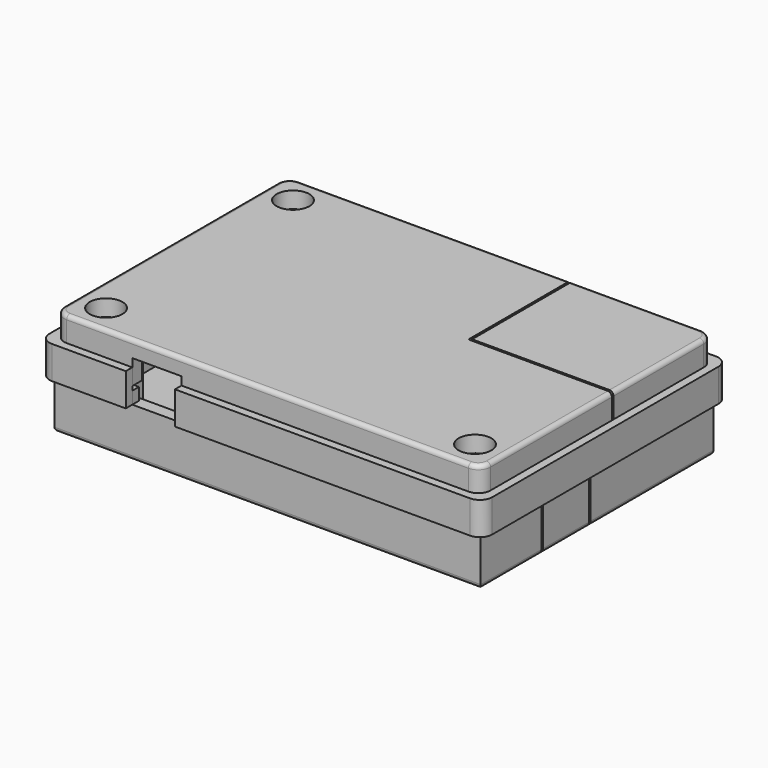
from build123d import *

# Parameters (mm, degrees)
CYLINDER024_R          = 3
CYLINDER024_DEPTH      = 12
CYLINDER025_R          = 3
CYLINDER025_DEPTH      = 12
CYLINDER026_R          = 3
CYLINDER026_DEPTH      = 12
CYLINDER027_R          = 3
CYLINDER027_DEPTH      = 12
BOX082_W               = 5
BOX082_H               = 5
BOX082_DEPTH           = 8
BOX083_W               = 5
BOX083_H               = 5
BOX083_DEPTH           = 8
BOX084_W               = 70
BOX084_H               = 2
BOX084_DEPTH           = 8
BOX085_W               = 5
BOX085_H               = 5
BOX085_DEPTH           = 8
BOX086_W               = 5
BOX086_H               = 5
BOX086_DEPTH           = 8
BOX087_W               = 2
BOX087_H               = 65
BOX087_DEPTH           = 8
BOX089_W               = 16
BOX089_H               = 2
BOX089_DEPTH           = 8
BOX088_W               = 2
BOX088_H               = 65
BOX088_DEPTH           = 8
BOX081_W               = 98
BOX081_H               = 2
BOX081_DEPTH           = 8
FILLET018_R            = 3
BOX078_W               = 17
BOX078_H               = 8
BOX078_DEPTH           = 1.5
BOX080_W               = 9
BOX080_H               = 2
BOX080_DEPTH           = 8
BOX079_W               = 2
BOX079_H               = 11
BOX079_DEPTH           = 8
BOX077_W               = 31.5
BOX077_H               = 27.5
BOX077_DEPTH           = 6
BOX076_W               = 34.5
BOX076_H               = 30.5
BOX076_DEPTH           = 8
FILLET016_R            = 3
FILLET017_R            = 1
BOX074_W               = 2
BOX074_H               = 5
BOX074_DEPTH           = 2
BOX073_W               = 22
BOX073_H               = 5
BOX073_DEPTH           = 2
BOX075_W               = 2
BOX075_H               = 5
BOX075_DEPTH           = 2
CYLINDER018_R          = 2
CYLINDER018_DEPTH      = 10
CYLINDER017_R          = 2
CYLINDER017_DEPTH      = 10
CYLINDER019_R          = 2
CYLINDER019_DEPTH      = 10
CYLINDER020_R          = 4
CYLINDER020_DEPTH      = 4
CYLINDER021_R          = 4
CYLINDER021_DEPTH      = 4
CYLINDER023_R          = 4
CYLINDER023_DEPTH      = 4
CYLINDER016_R          = 2
CYLINDER016_DEPTH      = 2
BOX036_W               = 12
BOX036_H               = 3
BOX036_DEPTH           = 6
BOX042_W               = 35
BOX042_H               = 31
BOX042_DEPTH           = 8
BOX037_W               = 80
BOX037_H               = 1
BOX037_DEPTH           = 8
BOX039_W               = 1
BOX039_H               = 47
BOX039_DEPTH           = 8
BOX032_W               = 10
BOX032_H               = 10
BOX032_DEPTH           = 8
BOX035_W               = 10
BOX035_H               = 10
BOX035_DEPTH           = 8
BOX034_W               = 10
BOX034_H               = 10
BOX034_DEPTH           = 8
BOX033_W               = 10
BOX033_H               = 10
BOX033_DEPTH           = 8
BOX040_W               = 1
BOX040_H               = 47
BOX040_DEPTH           = 8
BOX038_W               = 80
BOX038_H               = 1
BOX038_DEPTH           = 8
BOX031_W               = 100
BOX031_H               = 67
BOX031_DEPTH           = 8
BOX029_W               = 104
BOX029_H               = 71
BOX029_DEPTH           = 10
FILLET019_R            = 3
FILLET020_R            = 1
BOX012_W               = 8
BOX012_H               = 10
BOX012_DEPTH           = 8
BOX099_W               = 22
BOX099_H               = 8
BOX099_DEPTH           = 15
BOX100_W               = 22
BOX100_H               = 8
BOX100_DEPTH           = 15
BOX090_W               = 10
BOX090_H               = 15
BOX090_DEPTH           = 2
BOX092_W               = 51
BOX092_H               = 65
BOX092_DEPTH           = 2
CYLINDER005_R          = 4
CYLINDER005_DEPTH      = 8
CYLINDER004_R          = 4
CYLINDER004_DEPTH      = 8
CYLINDER_R             = 2
CYLINDER_DEPTH         = 15
CYLINDER007_R          = 4
CYLINDER007_DEPTH      = 8
CYLINDER006_R          = 4
CYLINDER006_DEPTH      = 8
CYLINDER003_R          = 2
CYLINDER003_DEPTH      = 15
CYLINDER002_R          = 2
CYLINDER002_DEPTH      = 15
CYLINDER001_R          = 2
CYLINDER001_DEPTH      = 15
BOX091_W               = 61
BOX091_H               = 71
BOX091_DEPTH           = 2
BOX003_W               = 10
BOX003_H               = 10
BOX003_DEPTH           = 13
BOX004_W               = 10
BOX004_H               = 10
BOX004_DEPTH           = 13
BOX005_W               = 10
BOX005_H               = 10
BOX005_DEPTH           = 13
BOX002_W               = 10
BOX002_H               = 10
BOX002_DEPTH           = 13
BOX009_W               = 80
BOX009_H               = 1
BOX009_DEPTH           = 10
BOX010_W               = 1
BOX010_H               = 19
BOX010_DEPTH           = 10
BOX011_W               = 1
BOX011_H               = 47
BOX011_DEPTH           = 10
BOX006_W               = 12
BOX006_H               = 2
BOX006_DEPTH           = 3
BOX007_W               = 24
BOX007_H               = 15
BOX007_DEPTH           = 15
BOX001_W               = 100
BOX001_H               = 67
BOX001_DEPTH           = 13
BOX_W                  = 104
BOX_H                  = 71
BOX_DEPTH              = 15
BOX008_W               = 80
BOX008_H               = 1
BOX008_DEPTH           = 10
BOX025_W               = 2
BOX025_H               = 2
BOX025_DEPTH           = 2
BOX027_W               = 2
BOX027_H               = 2
BOX027_DEPTH           = 2
BOX023_W               = 4
BOX023_H               = 4
BOX023_DEPTH           = 2
BOX018_W               = 3
BOX018_H               = 63
BOX018_DEPTH           = 2
BOX017_W               = 57
BOX017_H               = 3
BOX017_DEPTH           = 2
BOX016_W               = 57
BOX016_H               = 3
BOX016_DEPTH           = 2
BOX022_W               = 4
BOX022_H               = 4
BOX022_DEPTH           = 2
BOX093_W               = 9
BOX093_H               = 47
BOX093_DEPTH           = 2
FILLET_R               = 1
CYLINDER031_R          = 2
CYLINDER031_DEPTH      = 15
CYLINDER030_R          = 2
CYLINDER030_DEPTH      = 15
CYLINDER032_R          = 2
CYLINDER032_DEPTH      = 15
CYLINDER029_R          = 2
CYLINDER029_DEPTH      = 15
CYLINDER033_R          = 1.5
CYLINDER033_DEPTH      = 3
BOX094_W               = 22
BOX094_H               = 6.5
BOX094_DEPTH           = 8
BOX095_W               = 22
BOX095_H               = 6.5
BOX095_DEPTH           = 8
BOX098_W               = 7
BOX098_H               = 15
BOX098_DEPTH           = 1
BOX112_W               = 4
BOX112_H               = 3
BOX112_DEPTH           = 5
BOX110_W               = 4
BOX110_H               = 3
BOX110_DEPTH           = 5
CYLINDER046_R          = 3
CYLINDER046_DEPTH      = 15
CYLINDER045_R          = 3
CYLINDER045_DEPTH      = 15
CYLINDER040_R          = 2
CYLINDER040_DEPTH      = 15
CYLINDER038_R          = 2
CYLINDER038_DEPTH      = 15
CYLINDER043_R          = 2.5
CYLINDER043_DEPTH      = 30
CYLINDER043_ROLL_ANGLE = 90
BOX104_W               = 5
BOX104_H               = 8
BOX104_DEPTH           = 2.5
BOX102_W               = 22
BOX102_H               = 6.5
BOX102_DEPTH           = 7
BOX111_W               = 4
BOX111_H               = 3
BOX111_DEPTH           = 5
BOX109_W               = 4
BOX109_H               = 3
BOX109_DEPTH           = 5
CYLINDER044_R          = 2.5
CYLINDER044_DEPTH      = 30
CYLINDER044_ROLL_ANGLE = 90
CYLINDER041_R          = 3
CYLINDER041_DEPTH      = 15
CYLINDER047_R          = 3
CYLINDER047_DEPTH      = 15
CYLINDER034_R          = 2
CYLINDER034_DEPTH      = 15
CYLINDER039_R          = 2
CYLINDER039_DEPTH      = 15
CYLINDER037_R          = 2.5
CYLINDER037_DEPTH      = 28
CYLINDER037_ROLL_ANGLE = 90
BOX103_W               = 5
BOX103_H               = 8
BOX103_DEPTH           = 2.5
BOX101_W               = 22
BOX101_H               = 6.5
BOX101_DEPTH           = 7
BOX116_W               = 15.5
BOX116_H               = 1.5
BOX116_DEPTH           = 1
BOX117_W               = 15.5
BOX117_H               = 1.5
BOX117_DEPTH           = 1
BOX118_W               = 3
BOX118_H               = 14
BOX118_DEPTH           = 1
BOX115_W               = 3
BOX115_H               = 11
BOX115_DEPTH           = 1
BOX119_W               = 8
BOX119_H               = 9
BOX119_DEPTH           = 4
BOX113_W               = 5
BOX113_H               = 4
BOX113_DEPTH           = 2
BOX114_W               = 5
BOX114_H               = 4
BOX114_DEPTH           = 2
BOX106_W               = 5
BOX106_H               = 14
BOX106_DEPTH           = 9
BOX105_W               = 23
BOX105_H               = 14
BOX105_DEPTH           = 11
BOX107_W               = 10
BOX107_H               = 14
BOX107_DEPTH           = 4
CYLINDER042_R          = 2
CYLINDER042_DEPTH      = 28
CYLINDER042_ROLL_ANGLE = 90
FILLET021_R            = 1


with BuildPart() as cylinder024:
    # Cylinder024 → Cylinder024 (new body)
    with BuildSketch(Plane(origin=(2, 2, 11), x_dir=(1, 0, 0), z_dir=(0, 0, 1))):
        Circle(CYLINDER024_R)
    extrude(amount=CYLINDER024_DEPTH)


with BuildPart() as cylinder025:
    # Cylinder025 → Cylinder025 (new body)
    with BuildSketch(Plane(origin=(100, 2, 11), x_dir=(1, 0, 0), z_dir=(0, 0, 1))):
        Circle(CYLINDER025_R)
    extrude(amount=CYLINDER025_DEPTH)


with BuildPart() as cylinder026:
    # Cylinder026 → Cylinder026 (new body)
    with BuildSketch(Plane(origin=(2, 67, 11), x_dir=(1, 0, 0), z_dir=(0, 0, 1))):
        Circle(CYLINDER026_R)
    extrude(amount=CYLINDER026_DEPTH)


with BuildPart() as cylinder027:
    # Cylinder027 → Cylinder027 (new body)
    with BuildSketch(Plane(origin=(100, 67, 11), x_dir=(1, 0, 0), z_dir=(0, 0, 1))):
        Circle(CYLINDER027_R)
    extrude(amount=CYLINDER027_DEPTH)


with BuildPart() as cube082:
    # Box082 → Box082 (new body)
    with BuildSketch(Plane(origin=(100, 67, 12), x_dir=(1, 0, 0), z_dir=(0, 0, 1))):
        with Locations((2.5, 2.5)):
            Rectangle(BOX082_W, BOX082_H)
    extrude(amount=BOX082_DEPTH)


with BuildPart() as cube083:
    # Box083 → Box083 (new body)
    with BuildSketch(Plane(origin=(100, -3, 12), x_dir=(1, 0, 0), z_dir=(0, 0, 1))):
        with Locations((2.5, 2.5)):
            Rectangle(BOX083_W, BOX083_H)
    extrude(amount=BOX083_DEPTH)


with BuildPart() as cube084:
    # Box084 → Box084 (new body)
    with BuildSketch(Plane(origin=(30, -3, 12), x_dir=(1, 0, 0), z_dir=(0, 0, 1))):
        with Locations((35, 1)):
            Rectangle(BOX084_W, BOX084_H)
    extrude(amount=BOX084_DEPTH)


with BuildPart() as cube085:
    # Box085 → Box085 (new body)
    with BuildSketch(Plane(origin=(-3, -3, 12), x_dir=(1, 0, 0), z_dir=(0, 0, 1))):
        with Locations((2.5, 2.5)):
            Rectangle(BOX085_W, BOX085_H)
    extrude(amount=BOX085_DEPTH)


with BuildPart() as cube086:
    # Box086 → Box086 (new body)
    with BuildSketch(Plane(origin=(-3, 67, 12), x_dir=(1, 0, 0), z_dir=(0, 0, 1))):
        with Locations((2.5, 2.5)):
            Rectangle(BOX086_W, BOX086_H)
    extrude(amount=BOX086_DEPTH)


with BuildPart() as cube087:
    # Box087 → Box087 (new body)
    with BuildSketch(Plane(origin=(103, 2, 12), x_dir=(1, 0, 0), z_dir=(0, 0, 1))):
        with Locations((1, 32.5)):
            Rectangle(BOX087_W, BOX087_H)
    extrude(amount=BOX087_DEPTH)


with BuildPart() as cube089:
    # Box089 → Box089 (new body)
    with BuildSketch(Plane(origin=(2, -3, 12), x_dir=(1, 0, 0), z_dir=(0, 0, 1))):
        with Locations((8, 1)):
            Rectangle(BOX089_W, BOX089_H)
    extrude(amount=BOX089_DEPTH)


with BuildPart() as cube088:
    # Box088 → Box088 (new body)
    with BuildSketch(Plane(origin=(-3, 2, 12), x_dir=(1, 0, 0), z_dir=(0, 0, 1))):
        with Locations((1, 32.5)):
            Rectangle(BOX088_W, BOX088_H)
    extrude(amount=BOX088_DEPTH)


with BuildPart() as fillet018:
    # Box081 → Box081 (new body)
    with BuildSketch(Plane(origin=(2, 70, 12), x_dir=(1, 0, 0), z_dir=(0, 0, 1))):
        with Locations((49, 1)):
            Rectangle(BOX081_W, BOX081_H)
    extrude(amount=BOX081_DEPTH)

    # Fusion018: union Cube082, Cube083, Cube084, Cube085, Cube086, Cube087, Cube089, Cube088
    add(cube082.part)
    add(cube083.part)
    add(cube084.part)
    add(cube085.part)
    add(cube086.part)
    add(cube087.part)
    add(cube089.part)
    add(cube088.part)

    # Cut058: cut Cylinder027
    add(cylinder027.part, mode=Mode.SUBTRACT)

    # Cut059: cut Cylinder026
    add(cylinder026.part, mode=Mode.SUBTRACT)

    # Cut060: cut Cylinder025
    add(cylinder025.part, mode=Mode.SUBTRACT)

    # Cut061: cut Cylinder024
    add(cylinder024.part, mode=Mode.SUBTRACT)

    # Fillet018
    fillet018_edges = [fillet018.edges().sort_by_distance(p)[0] for p in [
        (105, 72, 16),
        (-3, 72, 16),
        (105, -3, 16),
        (-3, -3, 16),
    ]]
    fillet(fillet018_edges, radius=FILLET018_R)


with BuildPart() as cube078:
    # Box078 → Box078 (new body)
    with BuildSketch(Plane(origin=(75.5, 36, 22.5), x_dir=(1, 0, 0), z_dir=(0, 0, 1))):
        with Locations((8.5, 4)):
            Rectangle(BOX078_W, BOX078_H)
    extrude(amount=BOX078_DEPTH)


with BuildPart() as cube080:
    # Box080 → Box080 (new body)
    with BuildSketch(Plane(origin=(91, 56, 16), x_dir=(1, 0, 0), z_dir=(0, 0, 1))):
        with Locations((4.5, 1)):
            Rectangle(BOX080_W, BOX080_H)
    extrude(amount=BOX080_DEPTH)


with BuildPart() as cube079:
    # Box079 → Box079 (new body)
    with BuildSketch(Plane(origin=(89, 56, 16), x_dir=(1, 0, 0), z_dir=(0, 0, 1))):
        with Locations((1, 5.5)):
            Rectangle(BOX079_W, BOX079_H)
    extrude(amount=BOX079_DEPTH)


with BuildPart() as cube077:
    # Box077 → Box077 (new body)
    with BuildSketch(Plane(origin=(68.5, 39.5, 18), x_dir=(1, 0, 0), z_dir=(0, 0, 1))):
        with Locations((15.75, 13.75)):
            Rectangle(BOX077_W, BOX077_H)
    extrude(amount=BOX077_DEPTH)


with BuildPart() as fillet017:
    # Box076 → Box076 (new body)
    with BuildSketch(Plane(origin=(68.5, 39.5, 18), x_dir=(1, 0, 0), z_dir=(0, 0, 1))):
        with Locations((17.25, 15.25)):
            Rectangle(BOX076_W, BOX076_H)
    extrude(amount=BOX076_DEPTH)

    # Cut057: cut Cube077
    add(cube077.part, mode=Mode.SUBTRACT)

    # Fusion017: union Cube078, Cube080, Cube079
    add(cube078.part)
    add(cube080.part)
    add(cube079.part)

    # Fillet016
    fillet016_edges = [fillet017.edges().sort_by_distance(p)[0] for p in [
        (103, 70, 22),
    ]]
    fillet(fillet016_edges, radius=FILLET016_R)

    # Fillet017
    fillet017_edges = [fillet017.edges().sort_by_distance(p)[0] for p in [
        (103, 53.25, 26),
        (84.25, 70, 26),
        (102.12132, 69.12132, 26),
    ]]
    fillet(fillet017_edges, radius=FILLET017_R)


with BuildPart() as cube074:
    # Box074 → Box074 (new body)
    with BuildSketch(Plane(origin=(73, 34, 22), x_dir=(1, 0, 0), z_dir=(0, 0, 1))):
        with Locations((1, 2.5)):
            Rectangle(BOX074_W, BOX074_H)
    extrude(amount=BOX074_DEPTH)


with BuildPart() as cube073:
    # Box073 → Box073 (new body)
    with BuildSketch(Plane(origin=(73, 34, 20), x_dir=(1, 0, 0), z_dir=(0, 0, 1))):
        with Locations((11, 2.5)):
            Rectangle(BOX073_W, BOX073_H)
    extrude(amount=BOX073_DEPTH)


with BuildPart() as fusion022:
    # Box075 → Box075 (new body)
    with BuildSketch(Plane(origin=(93, 34, 22), x_dir=(1, 0, 0), z_dir=(0, 0, 1))):
        with Locations((1, 2.5)):
            Rectangle(BOX075_W, BOX075_H)
    extrude(amount=BOX075_DEPTH)

    # Fusion022: union Cube074, Cube073
    add(cube074.part)
    add(cube073.part)


with BuildPart() as cylinder018:
    # Cylinder018 → Cylinder018 (new body)
    with BuildSketch(Plane(origin=(96, 6, 16), x_dir=(1, 0, 0), z_dir=(0, 0, 1))):
        Circle(CYLINDER018_R)
    extrude(amount=CYLINDER018_DEPTH)


with BuildPart() as cylinder017:
    # Cylinder017 → Cylinder017 (new body)
    with BuildSketch(Plane(origin=(6, 63, 16), x_dir=(1, 0, 0), z_dir=(0, 0, 1))):
        Circle(CYLINDER017_R)
    extrude(amount=CYLINDER017_DEPTH)


with BuildPart() as cylinder019:
    # Cylinder019 → Cylinder019 (new body)
    with BuildSketch(Plane(origin=(6, 6, 16), x_dir=(1, 0, 0), z_dir=(0, 0, 1))):
        Circle(CYLINDER019_R)
    extrude(amount=CYLINDER019_DEPTH)


with BuildPart() as cylinder020:
    # Cylinder020 → Cylinder020 (new body)
    with BuildSketch(Plane(origin=(6, 6, 22), x_dir=(1, 0, 0), z_dir=(0, 0, 1))):
        Circle(CYLINDER020_R)
    extrude(amount=CYLINDER020_DEPTH)


with BuildPart() as cylinder021:
    # Cylinder021 → Cylinder021 (new body)
    with BuildSketch(Plane(origin=(6, 63, 22), x_dir=(1, 0, 0), z_dir=(0, 0, 1))):
        Circle(CYLINDER021_R)
    extrude(amount=CYLINDER021_DEPTH)


with BuildPart() as cylinder023:
    # Cylinder023 → Cylinder023 (new body)
    with BuildSketch(Plane(origin=(96, 6, 22), x_dir=(1, 0, 0), z_dir=(0, 0, 1))):
        Circle(CYLINDER023_R)
    extrude(amount=CYLINDER023_DEPTH)


with BuildPart() as cylinder016:
    # Cylinder016 → Cylinder016 (new body)
    with BuildSketch(Plane(origin=(96, 63, 16), x_dir=(1, 0, 0), z_dir=(0, 0, 1))):
        Circle(CYLINDER016_R)
    extrude(amount=CYLINDER016_DEPTH)


with BuildPart() as cube036:
    # Box036 → Box036 (new body)
    with BuildSketch(Plane(origin=(18, -1, 16), x_dir=(1, 0, 0), z_dir=(0, 0, 1))):
        with Locations((6, 1.5)):
            Rectangle(BOX036_W, BOX036_H)
    extrude(amount=BOX036_DEPTH)


with BuildPart() as cube042:
    # Box042 → Box042 (new body)
    with BuildSketch(Plane(origin=(68, 39, 18), x_dir=(1, 0, 0), z_dir=(0, 0, 1))):
        with Locations((17.5, 15.5)):
            Rectangle(BOX042_W, BOX042_H)
    extrude(amount=BOX042_DEPTH)


with BuildPart() as cube037:
    # Box037 → Box037 (new body)
    with BuildSketch(Plane(origin=(11, 1, 16), x_dir=(1, 0, 0), z_dir=(0, 0, 1))):
        with Locations((40, 0.5)):
            Rectangle(BOX037_W, BOX037_H)
    extrude(amount=BOX037_DEPTH)


with BuildPart() as cube039:
    # Box039 → Box039 (new body)
    with BuildSketch(Plane(origin=(100, 11, 16), x_dir=(1, 0, 0), z_dir=(0, 0, 1))):
        with Locations((0.5, 23.5)):
            Rectangle(BOX039_W, BOX039_H)
    extrude(amount=BOX039_DEPTH)


with BuildPart() as cube032:
    # Box032 → Box032 (new body)
    with BuildSketch(Plane(origin=(1, 1, 16), x_dir=(1, 0, 0), z_dir=(0, 0, 1))):
        with Locations((5, 5)):
            Rectangle(BOX032_W, BOX032_H)
    extrude(amount=BOX032_DEPTH)


with BuildPart() as cube035:
    # Box035 → Box035 (new body)
    with BuildSketch(Plane(origin=(1, 58, 16), x_dir=(1, 0, 0), z_dir=(0, 0, 1))):
        with Locations((5, 5)):
            Rectangle(BOX035_W, BOX035_H)
    extrude(amount=BOX035_DEPTH)


with BuildPart() as cube034:
    # Box034 → Box034 (new body)
    with BuildSketch(Plane(origin=(91, 1, 16), x_dir=(1, 0, 0), z_dir=(0, 0, 1))):
        with Locations((5, 5)):
            Rectangle(BOX034_W, BOX034_H)
    extrude(amount=BOX034_DEPTH)


with BuildPart() as cube033:
    # Box033 → Box033 (new body)
    with BuildSketch(Plane(origin=(91, 58, 16), x_dir=(1, 0, 0), z_dir=(0, 0, 1))):
        with Locations((5, 5)):
            Rectangle(BOX033_W, BOX033_H)
    extrude(amount=BOX033_DEPTH)


with BuildPart() as cube040:
    # Box040 → Box040 (new body)
    with BuildSketch(Plane(origin=(1, 11, 16), x_dir=(1, 0, 0), z_dir=(0, 0, 1))):
        with Locations((0.5, 23.5)):
            Rectangle(BOX040_W, BOX040_H)
    extrude(amount=BOX040_DEPTH)


with BuildPart() as cube038:
    # Box038 → Box038 (new body)
    with BuildSketch(Plane(origin=(11, 67, 16), x_dir=(1, 0, 0), z_dir=(0, 0, 1))):
        with Locations((40, 0.5)):
            Rectangle(BOX038_W, BOX038_H)
    extrude(amount=BOX038_DEPTH)


with BuildPart() as cube031:
    # Box031 → Box031 (new body)
    with BuildSketch(Plane(origin=(1, 1, 16), x_dir=(1, 0, 0), z_dir=(0, 0, 1))):
        with Locations((50, 33.5)):
            Rectangle(BOX031_W, BOX031_H)
    extrude(amount=BOX031_DEPTH)


with BuildPart() as fillet020:
    # Box029 → Box029 (new body)
    with BuildSketch(Plane(origin=(-1, -1, 16), x_dir=(1, 0, 0), z_dir=(0, 0, 1))):
        with Locations((52, 35.5)):
            Rectangle(BOX029_W, BOX029_H)
    extrude(amount=BOX029_DEPTH)

    # Cut073: cut Cube031
    add(cube031.part, mode=Mode.SUBTRACT)

    # Fusion023: union Cube037, Cube039, Cube032, Cube035, Cube034, Cube033, Cube040, Cube038
    add(cube037.part)
    add(cube039.part)
    add(cube032.part)
    add(cube035.part)
    add(cube034.part)
    add(cube033.part)
    add(cube040.part)
    add(cube038.part)

    # Cut074: cut Cube042
    add(cube042.part, mode=Mode.SUBTRACT)

    # Cut075: cut Cube036
    add(cube036.part, mode=Mode.SUBTRACT)

    # Cut076: cut Cylinder016
    add(cylinder016.part, mode=Mode.SUBTRACT)

    # Cut077: cut Cylinder023
    add(cylinder023.part, mode=Mode.SUBTRACT)

    # Cut078: cut Cylinder021
    add(cylinder021.part, mode=Mode.SUBTRACT)

    # Cut079: cut Cylinder020
    add(cylinder020.part, mode=Mode.SUBTRACT)

    # Cut080: cut Cylinder019
    add(cylinder019.part, mode=Mode.SUBTRACT)

    # Cut081: cut Cylinder017
    add(cylinder017.part, mode=Mode.SUBTRACT)

    # Cut082: cut Cylinder018
    add(cylinder018.part, mode=Mode.SUBTRACT)

    # Fillet019
    fillet019_edges = [fillet020.edges().sort_by_distance(p)[0] for p in [
        (-1, -1, 21),
        (-1, 70, 21),
        (103, -1, 21),
        (103, 70, 17),
    ]]
    fillet(fillet019_edges, radius=FILLET019_R)

    # Fillet020
    fillet020_edges = [fillet020.edges().sort_by_distance(p)[0] for p in [
        (-1, 34.5, 26),
        (35, 70, 26),
        (-0.12132, 69.12132, 26),
        (-0.12132, -0.12132, 26),
        (103, 20.5, 26),
        (51, -1, 26),
        (102.12132, -0.12132, 26),
    ]]
    fillet(fillet020_edges, radius=FILLET020_R)


with BuildPart() as cube012:
    # Box012 → Box012 (new body)
    with BuildSketch(Plane(origin=(92, 6, 0), x_dir=(1, 0, 0), z_dir=(0, 0, 1))):
        with Locations((4, 5)):
            Rectangle(BOX012_W, BOX012_H)
    extrude(amount=BOX012_DEPTH)


with BuildPart() as cube099:
    # Box099 → Box099 (new body)
    with BuildSketch(Plane(origin=(79, 32, 0), x_dir=(1, 0, 0), z_dir=(0, 0, 1))):
        with Locations((11, 4)):
            Rectangle(BOX099_W, BOX099_H)
    extrude(amount=BOX099_DEPTH)


with BuildPart() as cube100:
    # Box100 → Box100 (new body)
    with BuildSketch(Plane(origin=(79, 10, 0), x_dir=(1, 0, 0), z_dir=(0, 0, 1))):
        with Locations((11, 4)):
            Rectangle(BOX100_W, BOX100_H)
    extrude(amount=BOX100_DEPTH)


with BuildPart() as cube090:
    # Box090 → Box090 (new body)
    with BuildSketch(Plane(origin=(69, 17.5, 0), x_dir=(1, 0, 0), z_dir=(0, 0, 1))):
        with Locations((5, 7.5)):
            Rectangle(BOX090_W, BOX090_H)
    extrude(amount=BOX090_DEPTH)


with BuildPart() as cube092:
    # Box092 → Box092 (new body)
    with BuildSketch(Plane(origin=(11, 2, 2), x_dir=(1, 0, 0), z_dir=(0, 0, 1))):
        with Locations((25.5, 32.5)):
            Rectangle(BOX092_W, BOX092_H)
    extrude(amount=BOX092_DEPTH)


with BuildPart() as cylinder005:
    # Cylinder005 → Cylinder005 (new body)
    with BuildSketch(Plane(origin=(96, 6, 0), x_dir=(1, 0, 0), z_dir=(0, 0, 1))):
        Circle(CYLINDER005_R)
    extrude(amount=CYLINDER005_DEPTH)


with BuildPart() as cylinder004:
    # Cylinder004 → Cylinder004 (new body)
    with BuildSketch(Plane(origin=(6, 6, 0), x_dir=(1, 0, 0), z_dir=(0, 0, 1))):
        Circle(CYLINDER004_R)
    extrude(amount=CYLINDER004_DEPTH)


with BuildPart() as cylinder:
    # Cylinder → Cylinder (new body)
    with BuildSketch(Plane(origin=(6, 6, 0), x_dir=(1, 0, 0), z_dir=(0, 0, 1))):
        Circle(CYLINDER_R)
    extrude(amount=CYLINDER_DEPTH)


with BuildPart() as cylinder007:
    # Cylinder007 → Cylinder007 (new body)
    with BuildSketch(Plane(origin=(6, 63, 0), x_dir=(1, 0, 0), z_dir=(0, 0, 1))):
        Circle(CYLINDER007_R)
    extrude(amount=CYLINDER007_DEPTH)


with BuildPart() as cylinder006:
    # Cylinder006 → Cylinder006 (new body)
    with BuildSketch(Plane(origin=(96, 63, 0), x_dir=(1, 0, 0), z_dir=(0, 0, 1))):
        Circle(CYLINDER006_R)
    extrude(amount=CYLINDER006_DEPTH)


with BuildPart() as cylinder003:
    # Cylinder003 → Cylinder003 (new body)
    with BuildSketch(Plane(origin=(96, 63, 0), x_dir=(1, 0, 0), z_dir=(0, 0, 1))):
        Circle(CYLINDER003_R)
    extrude(amount=CYLINDER003_DEPTH)


with BuildPart() as cylinder002:
    # Cylinder002 → Cylinder002 (new body)
    with BuildSketch(Plane(origin=(6, 63, 0), x_dir=(1, 0, 0), z_dir=(0, 0, 1))):
        Circle(CYLINDER002_R)
    extrude(amount=CYLINDER002_DEPTH)


with BuildPart() as cylinder001:
    # Cylinder001 → Cylinder001 (new body)
    with BuildSketch(Plane(origin=(96, 6, 0), x_dir=(1, 0, 0), z_dir=(0, 0, 1))):
        Circle(CYLINDER001_R)
    extrude(amount=CYLINDER001_DEPTH)


with BuildPart() as cube091:
    # Box091 → Box091 (new body)
    with BuildSketch(Plane(origin=(-1, -1, 0), x_dir=(1, 0, 0), z_dir=(0, 0, 1))):
        with Locations((30.5, 35.5)):
            Rectangle(BOX091_W, BOX091_H)
    extrude(amount=BOX091_DEPTH)


with BuildPart() as cube003:
    # Box003 → Box003 (new body)
    with BuildSketch(Plane(origin=(91, 1, 2), x_dir=(1, 0, 0), z_dir=(0, 0, 1))):
        with Locations((5, 5)):
            Rectangle(BOX003_W, BOX003_H)
    extrude(amount=BOX003_DEPTH)


with BuildPart() as cube004:
    # Box004 → Box004 (new body)
    with BuildSketch(Plane(origin=(1, 58, 2), x_dir=(1, 0, 0), z_dir=(0, 0, 1))):
        with Locations((5, 5)):
            Rectangle(BOX004_W, BOX004_H)
    extrude(amount=BOX004_DEPTH)


with BuildPart() as cube005:
    # Box005 → Box005 (new body)
    with BuildSketch(Plane(origin=(91, 58, 2), x_dir=(1, 0, 0), z_dir=(0, 0, 1))):
        with Locations((5, 5)):
            Rectangle(BOX005_W, BOX005_H)
    extrude(amount=BOX005_DEPTH)


with BuildPart() as cube002:
    # Box002 → Box002 (new body)
    with BuildSketch(Plane(origin=(1, 1, 2), x_dir=(1, 0, 0), z_dir=(0, 0, 1))):
        with Locations((5, 5)):
            Rectangle(BOX002_W, BOX002_H)
    extrude(amount=BOX002_DEPTH)


with BuildPart() as cube009:
    # Box009 → Box009 (new body)
    with BuildSketch(Plane(origin=(11, 67, 2), x_dir=(1, 0, 0), z_dir=(0, 0, 1))):
        with Locations((40, 0.5)):
            Rectangle(BOX009_W, BOX009_H)
    extrude(amount=BOX009_DEPTH)


with BuildPart() as cube010:
    # Box010 → Box010 (new body)
    with BuildSketch(Plane(origin=(100, 39, 2), x_dir=(1, 0, 0), z_dir=(0, 0, 1))):
        with Locations((0.5, 9.5)):
            Rectangle(BOX010_W, BOX010_H)
    extrude(amount=BOX010_DEPTH)


with BuildPart() as cube011:
    # Box011 → Box011 (new body)
    with BuildSketch(Plane(origin=(1, 11, 2), x_dir=(1, 0, 0), z_dir=(0, 0, 1))):
        with Locations((0.5, 23.5)):
            Rectangle(BOX011_W, BOX011_H)
    extrude(amount=BOX011_DEPTH)


with BuildPart() as cube006:
    # Box006 → Box006 (new body)
    with BuildSketch(Plane(origin=(18, -1, 12), x_dir=(1, 0, 0), z_dir=(0, 0, 1))):
        with Locations((6, 1)):
            Rectangle(BOX006_W, BOX006_H)
    extrude(amount=BOX006_DEPTH)


with BuildPart() as cube007:
    # Box007 → Box007 (new body)
    with BuildSketch(Plane(origin=(79, 17.5, 0), x_dir=(1, 0, 0), z_dir=(0, 0, 1))):
        with Locations((12, 7.5)):
            Rectangle(BOX007_W, BOX007_H)
    extrude(amount=BOX007_DEPTH)


with BuildPart() as cube001:
    # Box001 → Box001 (new body)
    with BuildSketch(Plane(origin=(1, 1, 2), x_dir=(1, 0, 0), z_dir=(0, 0, 1))):
        with Locations((50, 33.5)):
            Rectangle(BOX001_W, BOX001_H)
    extrude(amount=BOX001_DEPTH)


with BuildPart() as cut121:
    # Box → Box (new body)
    with BuildSketch(Plane(origin=(-1, -1, 0), x_dir=(1, 0, 0), z_dir=(0, 0, 1))):
        with Locations((52, 35.5)):
            Rectangle(BOX_W, BOX_H)
    extrude(amount=BOX_DEPTH)

    # Cut: cut Cube001
    add(cube001.part, mode=Mode.SUBTRACT)

    # Cut120: cut Cube007
    add(cube007.part, mode=Mode.SUBTRACT)

    # Cut121: cut Cube006
    add(cube006.part, mode=Mode.SUBTRACT)


with BuildPart() as cut130:
    # Box008 → Box008 (new body)
    with BuildSketch(Plane(origin=(11, 1, 2), x_dir=(1, 0, 0), z_dir=(0, 0, 1))):
        with Locations((40, 0.5)):
            Rectangle(BOX008_W, BOX008_H)
    extrude(amount=BOX008_DEPTH)

    # Fusion: union Cube009, Cube010, Cube011, Cut121
    add(cube009.part)
    add(cube010.part)
    add(cube011.part)
    add(cut121.part)

    # Fusion029: union Cube003, Cube004, Cube005, Cube002
    add(cube003.part)
    add(cube004.part)
    add(cube005.part)
    add(cube002.part)

    # Cut122: cut Cube091
    add(cube091.part, mode=Mode.SUBTRACT)

    # Cut123: cut Cylinder001
    add(cylinder001.part, mode=Mode.SUBTRACT)

    # Cut124: cut Cylinder002
    add(cylinder002.part, mode=Mode.SUBTRACT)

    # Cut125: cut Cylinder003
    add(cylinder003.part, mode=Mode.SUBTRACT)

    # Cut126: cut Cylinder006
    add(cylinder006.part, mode=Mode.SUBTRACT)

    # Cut127: cut Cylinder007
    add(cylinder007.part, mode=Mode.SUBTRACT)

    # Cut128: cut Cylinder
    add(cylinder.part, mode=Mode.SUBTRACT)

    # Cut129: cut Cylinder004
    add(cylinder004.part, mode=Mode.SUBTRACT)

    # Cut130: cut Cylinder005
    add(cylinder005.part, mode=Mode.SUBTRACT)


with BuildPart() as cube025:
    # Box025 → Box025 (new body)
    with BuildSketch(Plane(origin=(2, 2, 0), x_dir=(1, 0, 0), z_dir=(0, 0, 1))):
        with Locations((1, 1)):
            Rectangle(BOX025_W, BOX025_H)
    extrude(amount=BOX025_DEPTH)


with BuildPart() as cube027:
    # Box027 → Box027 (new body)
    with BuildSketch(Plane(origin=(2, 65, 0), x_dir=(1, 0, 0), z_dir=(0, 0, 1))):
        with Locations((1, 1)):
            Rectangle(BOX027_W, BOX027_H)
    extrude(amount=BOX027_DEPTH)


with BuildPart() as cube023:
    # Box023 → Box023 (new body)
    with BuildSketch(Plane(origin=(-1, 66, 0), x_dir=(1, 0, 0), z_dir=(0, 0, 1))):
        with Locations((2, 2)):
            Rectangle(BOX023_W, BOX023_H)
    extrude(amount=BOX023_DEPTH)


with BuildPart() as cube018:
    # Box018 → Box018 (new body)
    with BuildSketch(Plane(origin=(-1, 3, 0), x_dir=(1, 0, 0), z_dir=(0, 0, 1))):
        with Locations((1.5, 31.5)):
            Rectangle(BOX018_W, BOX018_H)
    extrude(amount=BOX018_DEPTH)


with BuildPart() as cube017:
    # Box017 → Box017 (new body)
    with BuildSketch(Plane(origin=(3, 67, 0), x_dir=(1, 0, 0), z_dir=(0, 0, 1))):
        with Locations((28.5, 1.5)):
            Rectangle(BOX017_W, BOX017_H)
    extrude(amount=BOX017_DEPTH)


with BuildPart() as cube016:
    # Box016 → Box016 (new body)
    with BuildSketch(Plane(origin=(3, -1, 0), x_dir=(1, 0, 0), z_dir=(0, 0, 1))):
        with Locations((28.5, 1.5)):
            Rectangle(BOX016_W, BOX016_H)
    extrude(amount=BOX016_DEPTH)


with BuildPart() as fusion031:
    # Box022 → Box022 (new body)
    with BuildSketch(Plane(origin=(-1, -1, 0), x_dir=(1, 0, 0), z_dir=(0, 0, 1))):
        with Locations((2, 2)):
            Rectangle(BOX022_W, BOX022_H)
    extrude(amount=BOX022_DEPTH)

    # Fusion030: union Cube023, Cube018, Cube017, Cube016
    add(cube023.part)
    add(cube018.part)
    add(cube017.part)
    add(cube016.part)

    # Cut131: cut Cube027
    add(cube027.part, mode=Mode.SUBTRACT)

    # Cut132: cut Cube025
    add(cube025.part, mode=Mode.SUBTRACT)

    # Fusion031: union Cut130
    add(cut130.part)


with BuildPart() as fillet_body:
    # Box093 → Box093 (new body)
    with BuildSketch(Plane(origin=(2, 11, 2), x_dir=(1, 0, 0), z_dir=(0, 0, 1))):
        with Locations((4.5, 23.5)):
            Rectangle(BOX093_W, BOX093_H)
    extrude(amount=BOX093_DEPTH)

    # Fusion032: union Cube092, Fusion031
    add(cube092.part)
    add(fusion031.part)

    # Cut133: cut Cube090
    add(cube090.part, mode=Mode.SUBTRACT)

    # Cut134: cut Cube100
    add(cube100.part, mode=Mode.SUBTRACT)

    # Cut135: cut Cube099
    add(cube099.part, mode=Mode.SUBTRACT)

    # Cut136: cut Cube012
    add(cube012.part, mode=Mode.SUBTRACT)

    # Fillet
    fillet_edges = [fillet_body.edges().sort_by_distance(p)[0] for p in [
        (-1, 34.5, 0),
        (-1, 1, 0),
        (1, -1, 0),
        (-1, 68, 0),
        (1, 70, 0),
        (31.5, -1, 0),
        (31.5, 70, 0),
        (81.5, -1, 0),
        (81.5, 70, 0),
        (103, 8.25, 0),
        (103, 51.25, 0),
    ]]
    fillet(fillet_edges, radius=FILLET_R)


with BuildPart() as cylinder031:
    # Cylinder031 → Cylinder031 (new body)
    with BuildSketch(Plane(origin=(82.7, 14, 0), x_dir=(1, 0, 0), z_dir=(0, 0, 1))):
        Circle(CYLINDER031_R)
    extrude(amount=CYLINDER031_DEPTH)


with BuildPart() as cylinder030:
    # Cylinder030 → Cylinder030 (new body)
    with BuildSketch(Plane(origin=(94, 36, 0), x_dir=(1, 0, 0), z_dir=(0, 0, 1))):
        Circle(CYLINDER030_R)
    extrude(amount=CYLINDER030_DEPTH)


with BuildPart() as cylinder032:
    # Cylinder032 → Cylinder032 (new body)
    with BuildSketch(Plane(origin=(82.7, 36, 0), x_dir=(1, 0, 0), z_dir=(0, 0, 1))):
        Circle(CYLINDER032_R)
    extrude(amount=CYLINDER032_DEPTH)


with BuildPart() as cylinder029:
    # Cylinder029 → Cylinder029 (new body)
    with BuildSketch(Plane(origin=(94, 14, 0), x_dir=(1, 0, 0), z_dir=(0, 0, 1))):
        Circle(CYLINDER029_R)
    extrude(amount=CYLINDER029_DEPTH)


with BuildPart() as cylinder033:
    # Cylinder033 → Cylinder033 (new body)
    with BuildSketch(Plane(origin=(82.7, 25, 11), x_dir=(1, 0, 0), z_dir=(0, 0, 1))):
        Circle(CYLINDER033_R)
    extrude(amount=CYLINDER033_DEPTH)


with BuildPart() as cube094:
    # Box094 → Box094 (new body)
    with BuildSketch(Plane(origin=(79, 11, 7), x_dir=(1, 0, 0), z_dir=(0, 0, 1))):
        with Locations((11, 3.25)):
            Rectangle(BOX094_W, BOX094_H)
    extrude(amount=BOX094_DEPTH)


with BuildPart() as cube095:
    # Box095 → Box095 (new body)
    with BuildSketch(Plane(origin=(79, 32.5, 7), x_dir=(1, 0, 0), z_dir=(0, 0, 1))):
        with Locations((11, 3.25)):
            Rectangle(BOX095_W, BOX095_H)
    extrude(amount=BOX095_DEPTH)


with BuildPart() as cut148:
    # Box098 → Box098 (new body)
    with BuildSketch(Plane(origin=(79, 17.5, 14), x_dir=(1, 0, 0), z_dir=(0, 0, 1))):
        with Locations((3.5, 7.5)):
            Rectangle(BOX098_W, BOX098_H)
    extrude(amount=BOX098_DEPTH)

    # Fusion033: union Cylinder033, Cube094, Cube095
    add(cylinder033.part)
    add(cube094.part)
    add(cube095.part)

    # Cut145: cut Cylinder029
    add(cylinder029.part, mode=Mode.SUBTRACT)

    # Cut146: cut Cylinder032
    add(cylinder032.part, mode=Mode.SUBTRACT)

    # Cut147: cut Cylinder030
    add(cylinder030.part, mode=Mode.SUBTRACT)

    # Cut148: cut Cylinder031
    add(cylinder031.part, mode=Mode.SUBTRACT)


with BuildPart() as cube112:
    # Box112 → Box112 (new body)
    with BuildSketch(Plane(origin=(92, 36.5, 0), x_dir=(1, 0, 0), z_dir=(0, 0, 1))):
        with Locations((2, 1.5)):
            Rectangle(BOX112_W, BOX112_H)
    extrude(amount=BOX112_DEPTH)


with BuildPart() as cube110:
    # Box110 → Box110 (new body)
    with BuildSketch(Plane(origin=(80.7, 36.5, 0), x_dir=(1, 0, 0), z_dir=(0, 0, 1))):
        with Locations((2, 1.5)):
            Rectangle(BOX110_W, BOX110_H)
    extrude(amount=BOX110_DEPTH)


with BuildPart() as cylinder046:
    # Cylinder046 → Cylinder046 (new body)
    with BuildSketch(Plane(origin=(82.7, 36, -10), x_dir=(1, 0, 0), z_dir=(0, 0, 1))):
        Circle(CYLINDER046_R)
    extrude(amount=CYLINDER046_DEPTH)


with BuildPart() as cylinder045:
    # Cylinder045 → Cylinder045 (new body)
    with BuildSketch(Plane(origin=(94, 36, -10), x_dir=(1, 0, 0), z_dir=(0, 0, 1))):
        Circle(CYLINDER045_R)
    extrude(amount=CYLINDER045_DEPTH)


with BuildPart() as cylinder040:
    # Cylinder040 → Cylinder040 (new body)
    with BuildSketch(Plane(origin=(94, 36, 0), x_dir=(1, 0, 0), z_dir=(0, 0, 1))):
        Circle(CYLINDER040_R)
    extrude(amount=CYLINDER040_DEPTH)


with BuildPart() as cylinder038:
    # Cylinder038 → Cylinder038 (new body)
    with BuildSketch(Plane(origin=(82.7, 36, 0), x_dir=(1, 0, 0), z_dir=(0, 0, 1))):
        Circle(CYLINDER038_R)
    extrude(amount=CYLINDER038_DEPTH)


with BuildPart() as cylinder043:
    # Cylinder043 → Cylinder043 (new body)
    with BuildSketch(Plane.XY):
        Circle(CYLINDER043_R)
    extrude(amount=CYLINDER043_DEPTH)


with BuildPart() as cylinder043_1:
    # Cylinder043 roll: moved
    add(cylinder043.part.rotate(Axis((0, 0, 0), (1, 0, 0)), CYLINDER043_ROLL_ANGLE))


with BuildPart() as cylinder043_2:
    # Cylinder043 placement: moved
    add(cylinder043_1.part.moved(Location((88.3, 40, 5))))


with BuildPart() as cube104:
    # Box104 → Box104 (new body)
    with BuildSketch(Plane(origin=(85.7, 31.5, 4.5), x_dir=(1, 0, 0), z_dir=(0, 0, 1))):
        with Locations((2.5, 4)):
            Rectangle(BOX104_W, BOX104_H)
    extrude(amount=BOX104_DEPTH)


with BuildPart() as cut156:
    # Box102 → Box102 (new body)
    with BuildSketch(Plane(origin=(79, 32.5, 0), x_dir=(1, 0, 0), z_dir=(0, 0, 1))):
        with Locations((11, 3.25)):
            Rectangle(BOX102_W, BOX102_H)
    extrude(amount=BOX102_DEPTH)

    # Cut149: cut Cube104
    add(cube104.part, mode=Mode.SUBTRACT)

    # Cut150: cut Cylinder043
    add(cylinder043_2.part, mode=Mode.SUBTRACT)

    # Cut151: cut Cylinder038
    add(cylinder038.part, mode=Mode.SUBTRACT)

    # Cut152: cut Cylinder040
    add(cylinder040.part, mode=Mode.SUBTRACT)

    # Cut153: cut Cylinder045
    add(cylinder045.part, mode=Mode.SUBTRACT)

    # Cut154: cut Cylinder046
    add(cylinder046.part, mode=Mode.SUBTRACT)

    # Cut155: cut Cube110
    add(cube110.part, mode=Mode.SUBTRACT)

    # Cut156: cut Cube112
    add(cube112.part, mode=Mode.SUBTRACT)


with BuildPart() as cube111:
    # Box111 → Box111 (new body)
    with BuildSketch(Plane(origin=(92, 10.5, 0), x_dir=(1, 0, 0), z_dir=(0, 0, 1))):
        with Locations((2, 1.5)):
            Rectangle(BOX111_W, BOX111_H)
    extrude(amount=BOX111_DEPTH)


with BuildPart() as cube109:
    # Box109 → Box109 (new body)
    with BuildSketch(Plane(origin=(80.7, 10.5, 0), x_dir=(1, 0, 0), z_dir=(0, 0, 1))):
        with Locations((2, 1.5)):
            Rectangle(BOX109_W, BOX109_H)
    extrude(amount=BOX109_DEPTH)


with BuildPart() as cylinder044:
    # Cylinder044 → Cylinder044 (new body)
    with BuildSketch(Plane.XY):
        Circle(CYLINDER044_R)
    extrude(amount=CYLINDER044_DEPTH)


with BuildPart() as cylinder044_1:
    # Cylinder044 roll: moved
    add(cylinder044.part.rotate(Axis((0, 0, 0), (1, 0, 0)), CYLINDER044_ROLL_ANGLE))


with BuildPart() as cylinder044_2:
    # Cylinder044 placement: moved
    add(cylinder044_1.part.moved(Location((88.3, 40, 5))))


with BuildPart() as cylinder041:
    # Cylinder041 → Cylinder041 (new body)
    with BuildSketch(Plane(origin=(94, 14, -10), x_dir=(1, 0, 0), z_dir=(0, 0, 1))):
        Circle(CYLINDER041_R)
    extrude(amount=CYLINDER041_DEPTH)


with BuildPart() as cylinder047:
    # Cylinder047 → Cylinder047 (new body)
    with BuildSketch(Plane(origin=(82.7, 14, -10), x_dir=(1, 0, 0), z_dir=(0, 0, 1))):
        Circle(CYLINDER047_R)
    extrude(amount=CYLINDER047_DEPTH)


with BuildPart() as cylinder034:
    # Cylinder034 → Cylinder034 (new body)
    with BuildSketch(Plane(origin=(82.7, 14, 0), x_dir=(1, 0, 0), z_dir=(0, 0, 1))):
        Circle(CYLINDER034_R)
    extrude(amount=CYLINDER034_DEPTH)


with BuildPart() as cylinder039:
    # Cylinder039 → Cylinder039 (new body)
    with BuildSketch(Plane(origin=(94, 14, 0), x_dir=(1, 0, 0), z_dir=(0, 0, 1))):
        Circle(CYLINDER039_R)
    extrude(amount=CYLINDER039_DEPTH)


with BuildPart() as cylinder037:
    # Cylinder037 → Cylinder037 (new body)
    with BuildSketch(Plane.XY):
        Circle(CYLINDER037_R)
    extrude(amount=CYLINDER037_DEPTH)


with BuildPart() as cylinder037_1:
    # Cylinder037 roll: moved
    add(cylinder037.part.rotate(Axis((0, 0, 0), (1, 0, 0)), CYLINDER037_ROLL_ANGLE))


with BuildPart() as cylinder037_2:
    # Cylinder037 placement: moved
    add(cylinder037_1.part.moved(Location((88.3, 39, 5))))


with BuildPart() as cube103:
    # Box103 → Box103 (new body)
    with BuildSketch(Plane(origin=(85.7, 10.5, 4.5), x_dir=(1, 0, 0), z_dir=(0, 0, 1))):
        with Locations((2.5, 4)):
            Rectangle(BOX103_W, BOX103_H)
    extrude(amount=BOX103_DEPTH)


with BuildPart() as cut165:
    # Box101 → Box101 (new body)
    with BuildSketch(Plane(origin=(79, 11, 0), x_dir=(1, 0, 0), z_dir=(0, 0, 1))):
        with Locations((11, 3.25)):
            Rectangle(BOX101_W, BOX101_H)
    extrude(amount=BOX101_DEPTH)

    # Cut157: cut Cube103
    add(cube103.part, mode=Mode.SUBTRACT)

    # Cut158: cut Cylinder037
    add(cylinder037_2.part, mode=Mode.SUBTRACT)

    # Cut159: cut Cylinder039
    add(cylinder039.part, mode=Mode.SUBTRACT)

    # Cut160: cut Cylinder034
    add(cylinder034.part, mode=Mode.SUBTRACT)

    # Cut161: cut Cylinder047
    add(cylinder047.part, mode=Mode.SUBTRACT)

    # Cut162: cut Cylinder041
    add(cylinder041.part, mode=Mode.SUBTRACT)

    # Cut163: cut Cylinder044
    add(cylinder044_2.part, mode=Mode.SUBTRACT)

    # Cut164: cut Cube109
    add(cube109.part, mode=Mode.SUBTRACT)

    # Cut165: cut Cube111
    add(cube111.part, mode=Mode.SUBTRACT)


with BuildPart() as cube116:
    # Box116 → Box116 (new body)
    with BuildSketch(Plane(origin=(87.5, 30.5, 11), x_dir=(1, 0, 0), z_dir=(0, 0, 1))):
        with Locations((7.75, 0.75)):
            Rectangle(BOX116_W, BOX116_H)
    extrude(amount=BOX116_DEPTH)


with BuildPart() as cube117:
    # Box117 → Box117 (new body)
    with BuildSketch(Plane(origin=(87.5, 18, 11), x_dir=(1, 0, 0), z_dir=(0, 0, 1))):
        with Locations((7.75, 0.75)):
            Rectangle(BOX117_W, BOX117_H)
    extrude(amount=BOX117_DEPTH)


with BuildPart() as cube118:
    # Box118 → Box118 (new body)
    with BuildSketch(Plane(origin=(100, 18, 12), x_dir=(1, 0, 0), z_dir=(0, 0, 1))):
        with Locations((1.5, 7)):
            Rectangle(BOX118_W, BOX118_H)
    extrude(amount=BOX118_DEPTH)


with BuildPart() as fusion036:
    # Box115 → Box115 (new body)
    with BuildSketch(Plane(origin=(87.5, 19.5, 11), x_dir=(1, 0, 0), z_dir=(0, 0, 1))):
        with Locations((1.5, 5.5)):
            Rectangle(BOX115_W, BOX115_H)
    extrude(amount=BOX115_DEPTH)

    # Fusion036: union Cube116, Cube117, Cube118
    add(cube116.part)
    add(cube117.part)
    add(cube118.part)


with BuildPart() as cube119:
    # Box119 → Box119 (new body)
    with BuildSketch(Plane(origin=(77, 20.5, 2), x_dir=(1, 0, 0), z_dir=(0, 0, 1))):
        with Locations((4, 4.5)):
            Rectangle(BOX119_W, BOX119_H)
    extrude(amount=BOX119_DEPTH)


with BuildPart() as cube113:
    # Box113 → Box113 (new body)
    with BuildSketch(Plane(origin=(80, 28, 2), x_dir=(1, 0, 0), z_dir=(0, 0, 1))):
        with Locations((2.5, 2)):
            Rectangle(BOX113_W, BOX113_H)
    extrude(amount=BOX113_DEPTH)


with BuildPart() as cube114:
    # Box114 → Box114 (new body)
    with BuildSketch(Plane(origin=(80, 18, 2), x_dir=(1, 0, 0), z_dir=(0, 0, 1))):
        with Locations((2.5, 2)):
            Rectangle(BOX114_W, BOX114_H)
    extrude(amount=BOX114_DEPTH)


with BuildPart() as cube106:
    # Box106 → Box106 (new body)
    with BuildSketch(Plane(origin=(80, 18, 2), x_dir=(1, 0, 0), z_dir=(0, 0, 1))):
        with Locations((2.5, 7)):
            Rectangle(BOX106_W, BOX106_H)
    extrude(amount=BOX106_DEPTH)


with BuildPart() as cube105:
    # Box105 → Box105 (new body)
    with BuildSketch(Plane(origin=(80, 18, 0), x_dir=(1, 0, 0), z_dir=(0, 0, 1))):
        with Locations((11.5, 7)):
            Rectangle(BOX105_W, BOX105_H)
    extrude(amount=BOX105_DEPTH)


with BuildPart() as cube107:
    # Box107 → Box107 (new body)
    with BuildSketch(Plane(origin=(70, 18, 0), x_dir=(1, 0, 0), z_dir=(0, 0, 1))):
        with Locations((5, 7)):
            Rectangle(BOX107_W, BOX107_H)
    extrude(amount=BOX107_DEPTH)


with BuildPart() as cut167:
    # Cylinder042 → Cylinder042 (new body)
    with BuildSketch(Plane.XY):
        Circle(CYLINDER042_R)
    extrude(amount=CYLINDER042_DEPTH)


with BuildPart() as cut167_1:
    # Cylinder042 roll: moved
    add(cut167.part.rotate(Axis((0, 0, 0), (1, 0, 0)), CYLINDER042_ROLL_ANGLE))


with BuildPart() as cut167_2:
    # Cylinder042 placement: moved
    add(cut167_1.part.moved(Location((88.3, 39, 5))))

    # Fusion034: union Cube105, Cube107
    add(cube105.part)
    add(cube107.part)

    # Cut166: cut Cube106
    add(cube106.part, mode=Mode.SUBTRACT)

    # Fillet021
    fillet021_edges = [cut167_2.edges().sort_by_distance(p)[0] for p in [
        (103, 25, 0),
    ]]
    fillet(fillet021_edges, radius=FILLET021_R)

    # Fusion035: union Cube113, Cube114
    add(cube113.part)
    add(cube114.part)

    # Cut167: cut Cube119
    add(cube119.part, mode=Mode.SUBTRACT)


solid = Compound([fillet018.part, fillet017.part, fusion022.part, fillet020.part, fillet_body.part, cut148.part, cut156.part, cut165.part, fusion036.part, cut167_2.part])
